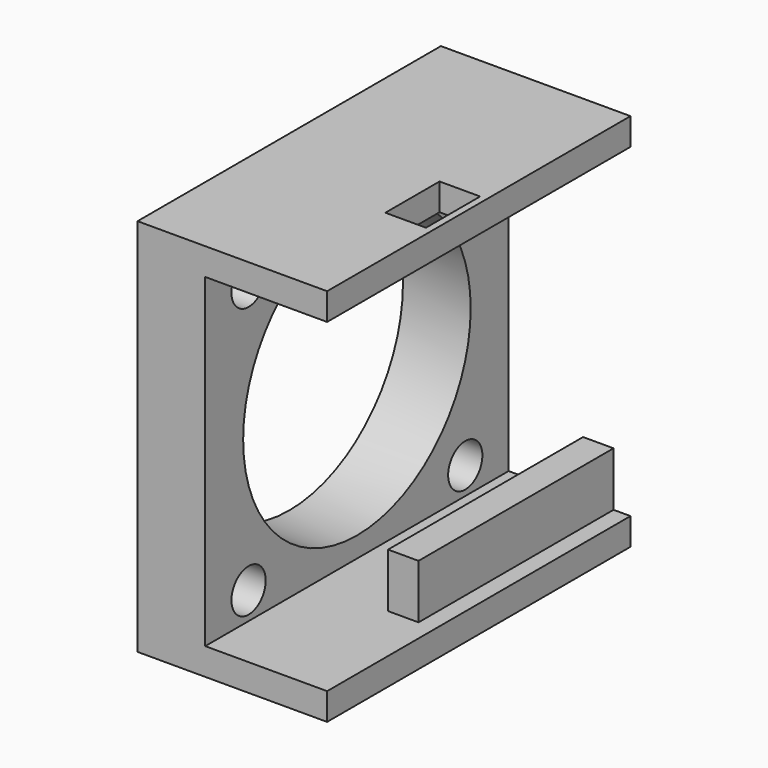
from build123d import *

# Parameters (mm, degrees)
SKETCH_W     = 28
SKETCH_H     = 28
SKETCH_R     = 1.58
SKETCH_R_2   = 10.5
PAD_DEPTH    = 5
SKETCH001_W  = 14
SKETCH001_H  = 28
PAD001_DEPTH = 2
SKETCH002_W  = 28
SKETCH002_H  = 14
PAD002_DEPTH = 2
SKETCH003_W  = 18
SKETCH003_H  = 4
PAD003_DEPTH = 2.25
SKETCH005_W  = 5
SKETCH005_H  = 3
POCKET_DEPTH = 5


with BuildPart() as part:
    # Sketch → Pad (new body)
    with BuildSketch(Plane.YZ):
        with Locations((14, 14)):
            Rectangle(SKETCH_W, SKETCH_H)
        with Locations((4, 24)):
            Circle(SKETCH_R, mode=Mode.SUBTRACT)
        with Locations((24, 24)):
            Circle(SKETCH_R, mode=Mode.SUBTRACT)
        with Locations((24, 4)):
            Circle(SKETCH_R, mode=Mode.SUBTRACT)
        with Locations((4, 4)):
            Circle(SKETCH_R, mode=Mode.SUBTRACT)
        with Locations((14, 14)):
            Circle(SKETCH_R_2, mode=Mode.SUBTRACT)
    extrude(amount=PAD_DEPTH)

    # Sketch001 → Pad001 (join)
    with BuildSketch(Plane.XY):
        with Locations((7, 14)):
            Rectangle(SKETCH001_W, SKETCH001_H)
    extrude(amount=PAD001_DEPTH)

    # Sketch002 (on DatumPlane) → Pad002 (join)
    with BuildSketch(Plane.YX.offset(-28)):
        with Locations((14, 7)):
            Rectangle(SKETCH002_W, SKETCH002_H)
    extrude(amount=PAD002_DEPTH)

    # Sketch003 (on DatumPlane) → Pad003 (join)
    with BuildSketch(Plane(origin=(10.5, -2, 0), x_dir=(0, 1, 0), z_dir=(1, 0, 0))):
        with Locations((21, 4)):
            Rectangle(SKETCH003_W, SKETCH003_H)
    extrude(amount=PAD003_DEPTH)

    # Sketch005 (on DatumPlane) → Pocket (cut)
    with BuildSketch(Plane.YX.offset(-28)):
        with Locations((12.25, 12)):
            Rectangle(SKETCH005_W, SKETCH005_H)
    extrude(amount=POCKET_DEPTH, mode=Mode.SUBTRACT)


solid = part.part
